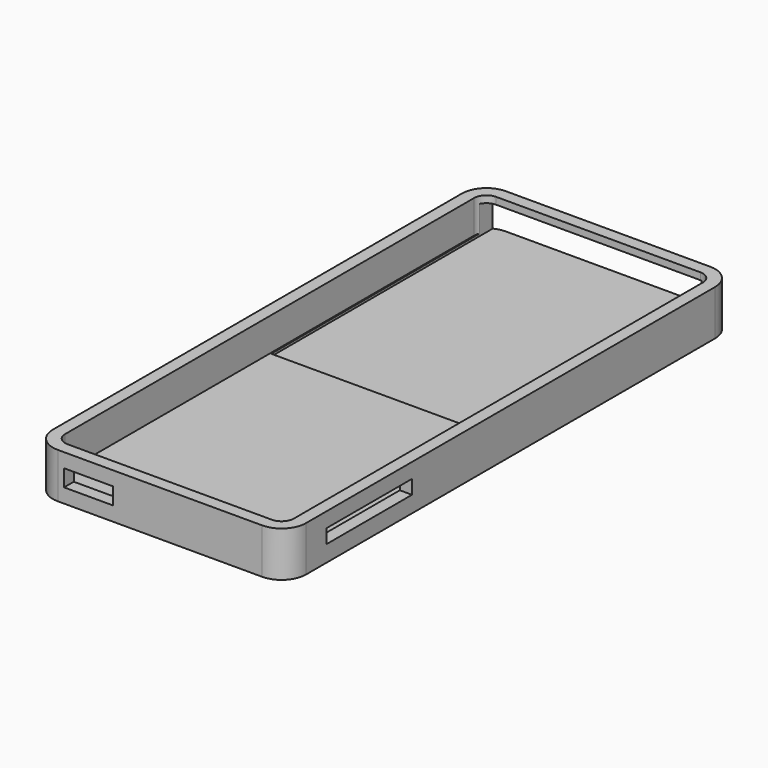
from build123d import *

# Parameters (mm, degrees)
F0_W      = 51.88
F0_H      = 114.8
F1_DEPTH  = 9.28
F2_R      = 5
F3_T      = -2.5
F4_W      = 9.99
F4_H      = 3.45
F5_DEPTH  = 69.5
F6_W      = 21.96
F6_H      = 2.88
F7_DEPTH  = 36.6
F8_W      = 44.31
F8_H      = 5.84
F9_DEPTH  = 65.7
F10_R     = 16.320489
F11_DEPTH = 1.2


with BuildPart() as f1:
    # F0 (on Top) → F1 (new body)
    with BuildSketch(Plane.XY):
        with Locations((-0.042248, -0.113639)):
            Rectangle(F0_W, F0_H)
    extrude(amount=F1_DEPTH)

    # F2
    f2_edges = [f1.edges().sort_by_distance(p)[0] for p in [
        (25.897752, 57.286361, 4.64),
        (25.897752, -57.513639, 4.64),
        (-25.982248, 57.286361, 4.64),
        (-25.982248, -57.513639, 4.64),
    ]]
    fillet(f2_edges, radius=F2_R)

    # F3
    f3_openings = [f1.faces().sort_by_distance(p)[0] for p in [
        (-0.042248, -0.113639, 9.28),
    ]]
    offset(amount=F3_T, openings=f3_openings)

    # F4 (on Front) → F5 (cut)
    with BuildSketch(Plane.XZ):
        with Locations((-14.695825, 4.658578)):
            Rectangle(F4_W, F4_H)
    extrude(amount=F5_DEPTH, mode=Mode.SUBTRACT)

    # F6 (on Right) → F7 (cut)
    with BuildSketch(Plane.YZ):
        with Locations((-36.337859, 4.790666)):
            Rectangle(F6_W, F6_H)
    extrude(amount=F7_DEPTH, mode=Mode.SUBTRACT)

    # F8 (on Front) → F9 (cut)
    with BuildSketch(Plane.XZ):
        with Locations((-1.091603, 4.939306)):
            Rectangle(F8_W, F8_H)
    extrude(amount=-F9_DEPTH, mode=Mode.SUBTRACT)

    # F10 (on Top) → F11 (join)
    with BuildSketch(Plane.XY):
        with BuildLine():
            ThreePointArc((18.784328, -6.925963), (19.709026, -3.517707), (20.020488, 0))
            ThreePointArc((20.020488, 0), (19.709026, 3.517707), (18.784328, 6.925963))
            ThreePointArc((18.784328, 6.925963), (0, 20.020488), (-18.784328, 6.925963))
            ThreePointArc((-18.784328, 6.925963), (-20.020488, 0), (-18.784328, -6.925963))
            ThreePointArc((-18.784328, -6.925963), (0, -20.020488), (18.784328, -6.925963))
        make_face()
        Circle(F10_R, mode=Mode.SUBTRACT)
        with BuildLine():
            ThreePointArc((-18.784328, 6.925963), (0, 20.020488), (18.784328, 6.925963))
            Line((18.784328, 6.925963), (22.793854, 6.925963))
            Line((22.793854, 6.925963), (22.793854, 42.115439))
            Line((22.793854, 42.115439), (0, 42.115439))
            Line((0, 42.115439), (-22.793854, 42.115439))
            Line((-22.793854, 42.115439), (-22.793854, 6.925963))
            Line((-22.793854, 6.925963), (-18.784328, 6.925963))
        make_face()
        with BuildLine():
            Line((22.793854, -6.925963), (18.784328, -6.925963))
            ThreePointArc((18.784328, -6.925963), (0, -20.020488), (-18.784328, -6.925963))
            Line((-18.784328, -6.925963), (-22.793854, -6.925963))
            Line((-22.793854, -6.925963), (-22.793854, -42.115439))
            Line((-22.793854, -42.115439), (0, -42.115439))
            Line((0, -42.115439), (22.793854, -42.115439))
            Line((22.793854, -42.115439), (22.793854, -6.925963))
        make_face()
    extrude(amount=-F11_DEPTH)


solid = f1.part
